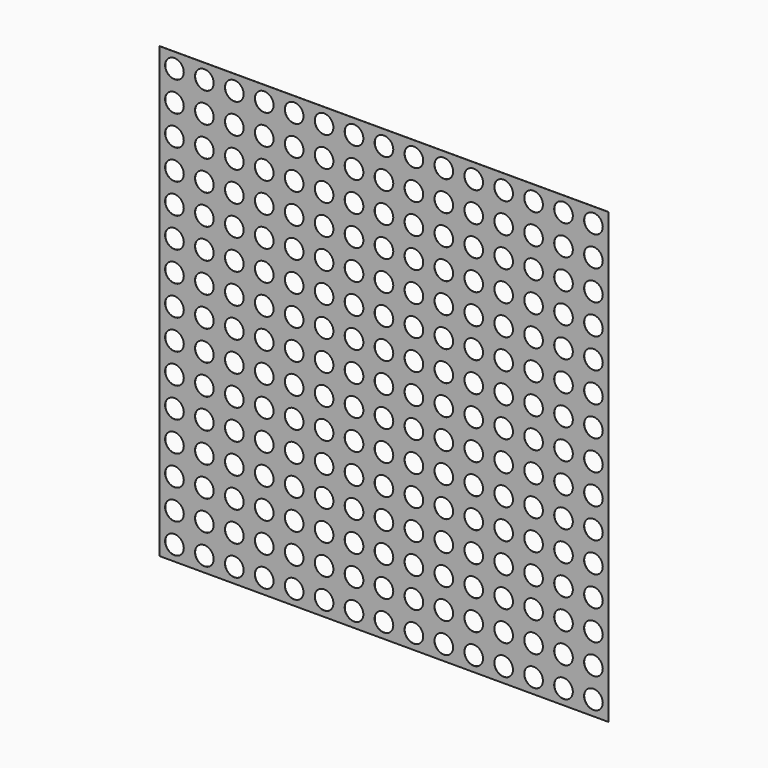
from build123d import *

# Parameters (mm, degrees)
F0_R     = 1.582703
F1_DEPTH = 0.0254


with BuildPart() as f1:
    # F0 (on Front) → F1 (new body)
    with BuildSketch(Plane.XZ):
        Polygon((0, 5.08), (0, 0), (5.08, 0), (10.16, 0), (15.24, 0), (20.32, 0), (25.4, 0), (30.48, 0), (35.56, 0), (40.64, 0), (45.72, 0), (50.8, 0), (55.88, 0), (60.96, 0), (66.04, 0), (71.12, 0), (76.2, 0), (76.2, 5.08), (76.2, 10.16), (76.2, 15.24), (76.2, 20.32), (76.2, 25.4), (76.2, 30.48), (76.2, 35.56), (76.2, 40.64), (76.2, 45.72), (76.2, 50.8), (76.2, 55.88), (76.2, 60.96), (76.2, 66.04), (76.2, 71.12), (76.2, 76.2), (0, 76.2), (0, 71.12), (0, 66.04), (0, 60.96), (0, 55.88), (0, 50.8), (0, 45.72), (0, 40.64), (0, 35.56), (0, 30.48), (0, 25.4), (0, 20.32), (0, 15.24), (0, 10.16), align=None)
        with Locations((2.54, 2.54)):
            Circle(F0_R, mode=Mode.SUBTRACT)
        with Locations((7.62, 2.54)):
            Circle(F0_R, mode=Mode.SUBTRACT)
        with Locations((2.54, 7.62)):
            Circle(F0_R, mode=Mode.SUBTRACT)
        with Locations((7.62, 7.62)):
            Circle(F0_R, mode=Mode.SUBTRACT)
        with Locations((12.7, 2.54)):
            Circle(F0_R, mode=Mode.SUBTRACT)
        with Locations((17.78, 2.54)):
            Circle(F0_R, mode=Mode.SUBTRACT)
        with Locations((12.7, 7.62)):
            Circle(F0_R, mode=Mode.SUBTRACT)
        with Locations((17.78, 7.62)):
            Circle(F0_R, mode=Mode.SUBTRACT)
        with Locations((2.54, 12.7)):
            Circle(F0_R, mode=Mode.SUBTRACT)
        with Locations((7.62, 12.7)):
            Circle(F0_R, mode=Mode.SUBTRACT)
        with Locations((2.54, 17.78)):
            Circle(F0_R, mode=Mode.SUBTRACT)
        with Locations((7.62, 17.78)):
            Circle(F0_R, mode=Mode.SUBTRACT)
        with Locations((12.7, 12.7)):
            Circle(F0_R, mode=Mode.SUBTRACT)
        with Locations((17.78, 12.7)):
            Circle(F0_R, mode=Mode.SUBTRACT)
        with Locations((12.7, 17.78)):
            Circle(F0_R, mode=Mode.SUBTRACT)
        with Locations((17.78, 17.78)):
            Circle(F0_R, mode=Mode.SUBTRACT)
        with Locations((22.86, 2.54)):
            Circle(F0_R, mode=Mode.SUBTRACT)
        with Locations((27.94, 2.54)):
            Circle(F0_R, mode=Mode.SUBTRACT)
        with Locations((22.86, 7.62)):
            Circle(F0_R, mode=Mode.SUBTRACT)
        with Locations((27.94, 7.62)):
            Circle(F0_R, mode=Mode.SUBTRACT)
        with Locations((33.02, 2.54)):
            Circle(F0_R, mode=Mode.SUBTRACT)
        with Locations((33.02, 7.62)):
            Circle(F0_R, mode=Mode.SUBTRACT)
        with Locations((22.86, 12.7)):
            Circle(F0_R, mode=Mode.SUBTRACT)
        with Locations((27.94, 12.7)):
            Circle(F0_R, mode=Mode.SUBTRACT)
        with Locations((22.86, 17.78)):
            Circle(F0_R, mode=Mode.SUBTRACT)
        with Locations((27.94, 17.78)):
            Circle(F0_R, mode=Mode.SUBTRACT)
        with Locations((33.02, 12.7)):
            Circle(F0_R, mode=Mode.SUBTRACT)
        with Locations((33.02, 17.78)):
            Circle(F0_R, mode=Mode.SUBTRACT)
        with Locations((2.54, 22.86)):
            Circle(F0_R, mode=Mode.SUBTRACT)
        with Locations((7.62, 22.86)):
            Circle(F0_R, mode=Mode.SUBTRACT)
        with Locations((2.54, 27.94)):
            Circle(F0_R, mode=Mode.SUBTRACT)
        with Locations((7.62, 27.94)):
            Circle(F0_R, mode=Mode.SUBTRACT)
        with Locations((12.7, 22.86)):
            Circle(F0_R, mode=Mode.SUBTRACT)
        with Locations((17.78, 22.86)):
            Circle(F0_R, mode=Mode.SUBTRACT)
        with Locations((12.7, 27.94)):
            Circle(F0_R, mode=Mode.SUBTRACT)
        with Locations((17.78, 27.94)):
            Circle(F0_R, mode=Mode.SUBTRACT)
        with Locations((2.54, 33.02)):
            Circle(F0_R, mode=Mode.SUBTRACT)
        with Locations((7.62, 33.02)):
            Circle(F0_R, mode=Mode.SUBTRACT)
        with Locations((12.7, 33.02)):
            Circle(F0_R, mode=Mode.SUBTRACT)
        with Locations((17.78, 33.02)):
            Circle(F0_R, mode=Mode.SUBTRACT)
        with Locations((22.86, 22.86)):
            Circle(F0_R, mode=Mode.SUBTRACT)
        with Locations((27.94, 22.86)):
            Circle(F0_R, mode=Mode.SUBTRACT)
        with Locations((22.86, 27.94)):
            Circle(F0_R, mode=Mode.SUBTRACT)
        with Locations((27.94, 27.94)):
            Circle(F0_R, mode=Mode.SUBTRACT)
        with Locations((33.02, 22.86)):
            Circle(F0_R, mode=Mode.SUBTRACT)
        with Locations((33.02, 27.94)):
            Circle(F0_R, mode=Mode.SUBTRACT)
        with Locations((22.86, 33.02)):
            Circle(F0_R, mode=Mode.SUBTRACT)
        with Locations((27.94, 33.02)):
            Circle(F0_R, mode=Mode.SUBTRACT)
        with Locations((33.02, 33.02)):
            Circle(F0_R, mode=Mode.SUBTRACT)
        with Locations((38.1, 2.54)):
            Circle(F0_R, mode=Mode.SUBTRACT)
        with Locations((43.18, 2.54)):
            Circle(F0_R, mode=Mode.SUBTRACT)
        with Locations((38.1, 7.62)):
            Circle(F0_R, mode=Mode.SUBTRACT)
        with Locations((43.18, 7.62)):
            Circle(F0_R, mode=Mode.SUBTRACT)
        with Locations((48.26, 2.54)):
            Circle(F0_R, mode=Mode.SUBTRACT)
        with Locations((53.34, 2.54)):
            Circle(F0_R, mode=Mode.SUBTRACT)
        with Locations((48.26, 7.62)):
            Circle(F0_R, mode=Mode.SUBTRACT)
        with Locations((53.34, 7.62)):
            Circle(F0_R, mode=Mode.SUBTRACT)
        with Locations((38.1, 12.7)):
            Circle(F0_R, mode=Mode.SUBTRACT)
        with Locations((43.18, 12.7)):
            Circle(F0_R, mode=Mode.SUBTRACT)
        with Locations((38.1, 17.78)):
            Circle(F0_R, mode=Mode.SUBTRACT)
        with Locations((43.18, 17.78)):
            Circle(F0_R, mode=Mode.SUBTRACT)
        with Locations((48.26, 12.7)):
            Circle(F0_R, mode=Mode.SUBTRACT)
        with Locations((53.34, 12.7)):
            Circle(F0_R, mode=Mode.SUBTRACT)
        with Locations((48.26, 17.78)):
            Circle(F0_R, mode=Mode.SUBTRACT)
        with Locations((53.34, 17.78)):
            Circle(F0_R, mode=Mode.SUBTRACT)
        with Locations((58.42, 2.54)):
            Circle(F0_R, mode=Mode.SUBTRACT)
        with Locations((63.5, 2.54)):
            Circle(F0_R, mode=Mode.SUBTRACT)
        with Locations((58.42, 7.62)):
            Circle(F0_R, mode=Mode.SUBTRACT)
        with Locations((63.5, 7.62)):
            Circle(F0_R, mode=Mode.SUBTRACT)
        with Locations((68.58, 2.54)):
            Circle(F0_R, mode=Mode.SUBTRACT)
        with Locations((73.66, 2.54)):
            Circle(F0_R, mode=Mode.SUBTRACT)
        with Locations((68.58, 7.62)):
            Circle(F0_R, mode=Mode.SUBTRACT)
        with Locations((73.66, 7.62)):
            Circle(F0_R, mode=Mode.SUBTRACT)
        with Locations((58.42, 12.7)):
            Circle(F0_R, mode=Mode.SUBTRACT)
        with Locations((63.5, 12.7)):
            Circle(F0_R, mode=Mode.SUBTRACT)
        with Locations((58.42, 17.78)):
            Circle(F0_R, mode=Mode.SUBTRACT)
        with Locations((63.5, 17.78)):
            Circle(F0_R, mode=Mode.SUBTRACT)
        with Locations((68.58, 12.7)):
            Circle(F0_R, mode=Mode.SUBTRACT)
        with Locations((73.66, 12.7)):
            Circle(F0_R, mode=Mode.SUBTRACT)
        with Locations((68.58, 17.78)):
            Circle(F0_R, mode=Mode.SUBTRACT)
        with Locations((73.66, 17.78)):
            Circle(F0_R, mode=Mode.SUBTRACT)
        with Locations((38.1, 22.86)):
            Circle(F0_R, mode=Mode.SUBTRACT)
        with Locations((43.18, 22.86)):
            Circle(F0_R, mode=Mode.SUBTRACT)
        with Locations((38.1, 27.94)):
            Circle(F0_R, mode=Mode.SUBTRACT)
        with Locations((43.18, 27.94)):
            Circle(F0_R, mode=Mode.SUBTRACT)
        with Locations((48.26, 22.86)):
            Circle(F0_R, mode=Mode.SUBTRACT)
        with Locations((53.34, 22.86)):
            Circle(F0_R, mode=Mode.SUBTRACT)
        with Locations((48.26, 27.94)):
            Circle(F0_R, mode=Mode.SUBTRACT)
        with Locations((53.34, 27.94)):
            Circle(F0_R, mode=Mode.SUBTRACT)
        with Locations((38.1, 33.02)):
            Circle(F0_R, mode=Mode.SUBTRACT)
        with Locations((43.18, 33.02)):
            Circle(F0_R, mode=Mode.SUBTRACT)
        with Locations((48.26, 33.02)):
            Circle(F0_R, mode=Mode.SUBTRACT)
        with Locations((53.34, 33.02)):
            Circle(F0_R, mode=Mode.SUBTRACT)
        with Locations((58.42, 22.86)):
            Circle(F0_R, mode=Mode.SUBTRACT)
        with Locations((63.5, 22.86)):
            Circle(F0_R, mode=Mode.SUBTRACT)
        with Locations((58.42, 27.94)):
            Circle(F0_R, mode=Mode.SUBTRACT)
        with Locations((63.5, 27.94)):
            Circle(F0_R, mode=Mode.SUBTRACT)
        with Locations((68.58, 22.86)):
            Circle(F0_R, mode=Mode.SUBTRACT)
        with Locations((73.66, 22.86)):
            Circle(F0_R, mode=Mode.SUBTRACT)
        with Locations((68.58, 27.94)):
            Circle(F0_R, mode=Mode.SUBTRACT)
        with Locations((73.66, 27.94)):
            Circle(F0_R, mode=Mode.SUBTRACT)
        with Locations((58.42, 33.02)):
            Circle(F0_R, mode=Mode.SUBTRACT)
        with Locations((63.5, 33.02)):
            Circle(F0_R, mode=Mode.SUBTRACT)
        with Locations((68.58, 33.02)):
            Circle(F0_R, mode=Mode.SUBTRACT)
        with Locations((73.66, 33.02)):
            Circle(F0_R, mode=Mode.SUBTRACT)
        with Locations((2.54, 38.1)):
            Circle(F0_R, mode=Mode.SUBTRACT)
        with Locations((7.62, 38.1)):
            Circle(F0_R, mode=Mode.SUBTRACT)
        with Locations((2.54, 43.18)):
            Circle(F0_R, mode=Mode.SUBTRACT)
        with Locations((7.62, 43.18)):
            Circle(F0_R, mode=Mode.SUBTRACT)
        with Locations((12.7, 38.1)):
            Circle(F0_R, mode=Mode.SUBTRACT)
        with Locations((17.78, 38.1)):
            Circle(F0_R, mode=Mode.SUBTRACT)
        with Locations((12.7, 43.18)):
            Circle(F0_R, mode=Mode.SUBTRACT)
        with Locations((17.78, 43.18)):
            Circle(F0_R, mode=Mode.SUBTRACT)
        with Locations((2.54, 48.26)):
            Circle(F0_R, mode=Mode.SUBTRACT)
        with Locations((7.62, 48.26)):
            Circle(F0_R, mode=Mode.SUBTRACT)
        with Locations((2.54, 53.34)):
            Circle(F0_R, mode=Mode.SUBTRACT)
        with Locations((7.62, 53.34)):
            Circle(F0_R, mode=Mode.SUBTRACT)
        with Locations((12.7, 48.26)):
            Circle(F0_R, mode=Mode.SUBTRACT)
        with Locations((17.78, 48.26)):
            Circle(F0_R, mode=Mode.SUBTRACT)
        with Locations((12.7, 53.34)):
            Circle(F0_R, mode=Mode.SUBTRACT)
        with Locations((17.78, 53.34)):
            Circle(F0_R, mode=Mode.SUBTRACT)
        with Locations((22.86, 38.1)):
            Circle(F0_R, mode=Mode.SUBTRACT)
        with Locations((27.94, 38.1)):
            Circle(F0_R, mode=Mode.SUBTRACT)
        with Locations((22.86, 43.18)):
            Circle(F0_R, mode=Mode.SUBTRACT)
        with Locations((27.94, 43.18)):
            Circle(F0_R, mode=Mode.SUBTRACT)
        with Locations((33.02, 38.1)):
            Circle(F0_R, mode=Mode.SUBTRACT)
        with Locations((33.02, 43.18)):
            Circle(F0_R, mode=Mode.SUBTRACT)
        with Locations((22.86, 48.26)):
            Circle(F0_R, mode=Mode.SUBTRACT)
        with Locations((27.94, 48.26)):
            Circle(F0_R, mode=Mode.SUBTRACT)
        with Locations((22.86, 53.34)):
            Circle(F0_R, mode=Mode.SUBTRACT)
        with Locations((27.94, 53.34)):
            Circle(F0_R, mode=Mode.SUBTRACT)
        with Locations((33.02, 48.26)):
            Circle(F0_R, mode=Mode.SUBTRACT)
        with Locations((33.02, 53.34)):
            Circle(F0_R, mode=Mode.SUBTRACT)
        with Locations((2.54, 58.42)):
            Circle(F0_R, mode=Mode.SUBTRACT)
        with Locations((7.62, 58.42)):
            Circle(F0_R, mode=Mode.SUBTRACT)
        with Locations((2.54, 63.5)):
            Circle(F0_R, mode=Mode.SUBTRACT)
        with Locations((7.62, 63.5)):
            Circle(F0_R, mode=Mode.SUBTRACT)
        with Locations((12.7, 58.42)):
            Circle(F0_R, mode=Mode.SUBTRACT)
        with Locations((17.78, 58.42)):
            Circle(F0_R, mode=Mode.SUBTRACT)
        with Locations((12.7, 63.5)):
            Circle(F0_R, mode=Mode.SUBTRACT)
        with Locations((17.78, 63.5)):
            Circle(F0_R, mode=Mode.SUBTRACT)
        with Locations((2.54, 68.58)):
            Circle(F0_R, mode=Mode.SUBTRACT)
        with Locations((7.62, 68.58)):
            Circle(F0_R, mode=Mode.SUBTRACT)
        with Locations((2.54, 73.66)):
            Circle(F0_R, mode=Mode.SUBTRACT)
        with Locations((7.62, 73.66)):
            Circle(F0_R, mode=Mode.SUBTRACT)
        with Locations((12.7, 68.58)):
            Circle(F0_R, mode=Mode.SUBTRACT)
        with Locations((17.78, 68.58)):
            Circle(F0_R, mode=Mode.SUBTRACT)
        with Locations((12.7, 73.66)):
            Circle(F0_R, mode=Mode.SUBTRACT)
        with Locations((17.78, 73.66)):
            Circle(F0_R, mode=Mode.SUBTRACT)
        with Locations((22.86, 58.42)):
            Circle(F0_R, mode=Mode.SUBTRACT)
        with Locations((27.94, 58.42)):
            Circle(F0_R, mode=Mode.SUBTRACT)
        with Locations((22.86, 63.5)):
            Circle(F0_R, mode=Mode.SUBTRACT)
        with Locations((27.94, 63.5)):
            Circle(F0_R, mode=Mode.SUBTRACT)
        with Locations((33.02, 58.42)):
            Circle(F0_R, mode=Mode.SUBTRACT)
        with Locations((33.02, 63.5)):
            Circle(F0_R, mode=Mode.SUBTRACT)
        with Locations((22.86, 68.58)):
            Circle(F0_R, mode=Mode.SUBTRACT)
        with Locations((27.94, 68.58)):
            Circle(F0_R, mode=Mode.SUBTRACT)
        with Locations((22.86, 73.66)):
            Circle(F0_R, mode=Mode.SUBTRACT)
        with Locations((27.94, 73.66)):
            Circle(F0_R, mode=Mode.SUBTRACT)
        with Locations((33.02, 68.58)):
            Circle(F0_R, mode=Mode.SUBTRACT)
        with Locations((33.02, 73.66)):
            Circle(F0_R, mode=Mode.SUBTRACT)
        with Locations((38.1, 38.1)):
            Circle(F0_R, mode=Mode.SUBTRACT)
        with Locations((43.18, 38.1)):
            Circle(F0_R, mode=Mode.SUBTRACT)
        with Locations((38.1, 43.18)):
            Circle(F0_R, mode=Mode.SUBTRACT)
        with Locations((43.18, 43.18)):
            Circle(F0_R, mode=Mode.SUBTRACT)
        with Locations((48.26, 38.1)):
            Circle(F0_R, mode=Mode.SUBTRACT)
        with Locations((53.34, 38.1)):
            Circle(F0_R, mode=Mode.SUBTRACT)
        with Locations((48.26, 43.18)):
            Circle(F0_R, mode=Mode.SUBTRACT)
        with Locations((53.34, 43.18)):
            Circle(F0_R, mode=Mode.SUBTRACT)
        with Locations((38.1, 48.26)):
            Circle(F0_R, mode=Mode.SUBTRACT)
        with Locations((43.18, 48.26)):
            Circle(F0_R, mode=Mode.SUBTRACT)
        with Locations((38.1, 53.34)):
            Circle(F0_R, mode=Mode.SUBTRACT)
        with Locations((43.18, 53.34)):
            Circle(F0_R, mode=Mode.SUBTRACT)
        with Locations((48.26, 48.26)):
            Circle(F0_R, mode=Mode.SUBTRACT)
        with Locations((53.34, 48.26)):
            Circle(F0_R, mode=Mode.SUBTRACT)
        with Locations((48.26, 53.34)):
            Circle(F0_R, mode=Mode.SUBTRACT)
        with Locations((53.34, 53.34)):
            Circle(F0_R, mode=Mode.SUBTRACT)
        with Locations((58.42, 38.1)):
            Circle(F0_R, mode=Mode.SUBTRACT)
        with Locations((63.5, 38.1)):
            Circle(F0_R, mode=Mode.SUBTRACT)
        with Locations((58.42, 43.18)):
            Circle(F0_R, mode=Mode.SUBTRACT)
        with Locations((63.5, 43.18)):
            Circle(F0_R, mode=Mode.SUBTRACT)
        with Locations((68.58, 38.1)):
            Circle(F0_R, mode=Mode.SUBTRACT)
        with Locations((73.66, 38.1)):
            Circle(F0_R, mode=Mode.SUBTRACT)
        with Locations((68.58, 43.18)):
            Circle(F0_R, mode=Mode.SUBTRACT)
        with Locations((73.66, 43.18)):
            Circle(F0_R, mode=Mode.SUBTRACT)
        with Locations((58.42, 48.26)):
            Circle(F0_R, mode=Mode.SUBTRACT)
        with Locations((63.5, 48.26)):
            Circle(F0_R, mode=Mode.SUBTRACT)
        with Locations((58.42, 53.34)):
            Circle(F0_R, mode=Mode.SUBTRACT)
        with Locations((63.5, 53.34)):
            Circle(F0_R, mode=Mode.SUBTRACT)
        with Locations((68.58, 48.26)):
            Circle(F0_R, mode=Mode.SUBTRACT)
        with Locations((73.66, 48.26)):
            Circle(F0_R, mode=Mode.SUBTRACT)
        with Locations((68.58, 53.34)):
            Circle(F0_R, mode=Mode.SUBTRACT)
        with Locations((73.66, 53.34)):
            Circle(F0_R, mode=Mode.SUBTRACT)
        with Locations((38.1, 58.42)):
            Circle(F0_R, mode=Mode.SUBTRACT)
        with Locations((43.18, 58.42)):
            Circle(F0_R, mode=Mode.SUBTRACT)
        with Locations((38.1, 63.5)):
            Circle(F0_R, mode=Mode.SUBTRACT)
        with Locations((43.18, 63.5)):
            Circle(F0_R, mode=Mode.SUBTRACT)
        with Locations((48.26, 58.42)):
            Circle(F0_R, mode=Mode.SUBTRACT)
        with Locations((53.34, 58.42)):
            Circle(F0_R, mode=Mode.SUBTRACT)
        with Locations((48.26, 63.5)):
            Circle(F0_R, mode=Mode.SUBTRACT)
        with Locations((53.34, 63.5)):
            Circle(F0_R, mode=Mode.SUBTRACT)
        with Locations((38.1, 68.58)):
            Circle(F0_R, mode=Mode.SUBTRACT)
        with Locations((43.18, 68.58)):
            Circle(F0_R, mode=Mode.SUBTRACT)
        with Locations((38.1, 73.66)):
            Circle(F0_R, mode=Mode.SUBTRACT)
        with Locations((43.18, 73.66)):
            Circle(F0_R, mode=Mode.SUBTRACT)
        with Locations((48.26, 68.58)):
            Circle(F0_R, mode=Mode.SUBTRACT)
        with Locations((53.34, 68.58)):
            Circle(F0_R, mode=Mode.SUBTRACT)
        with Locations((48.26, 73.66)):
            Circle(F0_R, mode=Mode.SUBTRACT)
        with Locations((53.34, 73.66)):
            Circle(F0_R, mode=Mode.SUBTRACT)
        with Locations((58.42, 58.42)):
            Circle(F0_R, mode=Mode.SUBTRACT)
        with Locations((63.5, 58.42)):
            Circle(F0_R, mode=Mode.SUBTRACT)
        with Locations((58.42, 63.5)):
            Circle(F0_R, mode=Mode.SUBTRACT)
        with Locations((63.5, 63.5)):
            Circle(F0_R, mode=Mode.SUBTRACT)
        with Locations((68.58, 58.42)):
            Circle(F0_R, mode=Mode.SUBTRACT)
        with Locations((73.66, 58.42)):
            Circle(F0_R, mode=Mode.SUBTRACT)
        with Locations((68.58, 63.5)):
            Circle(F0_R, mode=Mode.SUBTRACT)
        with Locations((73.66, 63.5)):
            Circle(F0_R, mode=Mode.SUBTRACT)
        with Locations((58.42, 68.58)):
            Circle(F0_R, mode=Mode.SUBTRACT)
        with Locations((63.5, 68.58)):
            Circle(F0_R, mode=Mode.SUBTRACT)
        with Locations((58.42, 73.66)):
            Circle(F0_R, mode=Mode.SUBTRACT)
        with Locations((63.5, 73.66)):
            Circle(F0_R, mode=Mode.SUBTRACT)
        with Locations((68.58, 68.58)):
            Circle(F0_R, mode=Mode.SUBTRACT)
        with Locations((73.66, 68.58)):
            Circle(F0_R, mode=Mode.SUBTRACT)
        with Locations((68.58, 73.66)):
            Circle(F0_R, mode=Mode.SUBTRACT)
        with Locations((73.66, 73.66)):
            Circle(F0_R, mode=Mode.SUBTRACT)
    extrude(amount=F1_DEPTH)


solid = f1.part
